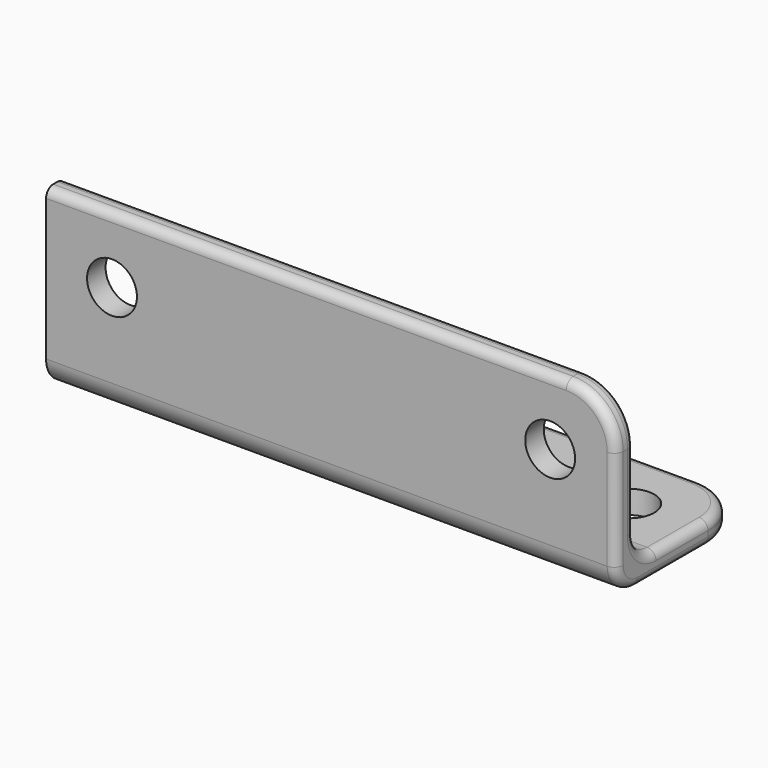
from build123d import *

# Parameters (mm, degrees)
F0_R     = 2.8
F1_DEPTH = 2.6
F2_R     = 2.8
F3_DEPTH = 2.6
F4_R     = 3
F5_R     = 1


with BuildPart() as f1:
    # F0 (on Top) → F1 (new body)
    with BuildSketch(Plane.XY):
        with BuildLine():
            Line((0, 18.5), (0, 0))
            Line((0, 0), (64, 0))
            Line((64, 0), (64, 12.9))
            ThreePointArc((64, 12.9), (62.3597979746, 16.8597979746), (58.4, 18.5))
            Line((58.4, 18.5), (0, 18.5))
        make_face()
        with Locations((7.4, 11.1)):
            Circle(F0_R, mode=Mode.SUBTRACT)
        with Locations((56.6, 11.1)):
            Circle(F0_R, mode=Mode.SUBTRACT)
    extrude(amount=F1_DEPTH)

    # F2 (on Front) → F3 (join)
    with BuildSketch(Plane.XZ):
        with BuildLine():
            Line((0, 19.8681156561), (0, 1.3681156561))
            Line((0, 1.3681156561), (64, 1.3681156561))
            Line((64, 1.3681156561), (64, 14.2681156561))
            ThreePointArc((64, 14.2681156561), (62.3597979746, 18.2279136307), (58.4, 19.8681156561))
            Line((58.4, 19.8681156561), (0, 19.8681156561))
        make_face()
        with Locations((7.4, 12.4681156561)):
            Circle(F2_R, mode=Mode.SUBTRACT)
        with Locations((56.6, 12.4681156561)):
            Circle(F2_R, mode=Mode.SUBTRACT)
    extrude(amount=-F3_DEPTH)

    # F4
    f4_edges = [f1.edges().sort_by_distance(p)[0] for p in [
        (32, 0, 0),
        (32, 2.6, 2.6),
    ]]
    fillet(f4_edges, radius=F4_R)

    # F5
    f5_edges = [f1.edges().sort_by_distance(p)[0] for p in [
        (29.2, 2.6, 19.868116),
        (29.2, 0, 19.868116),
        (29.2, 18.5, 2.6),
        (29.2, 18.5, 0),
        (64, 0, 8.634058),
        (64, 0.87868, 0.87868),
        (64, 7.95, 0),
        (64, 9.25, 2.6),
        (64, 2.6, 9.934058),
        (62.359798, 2.6, 18.227914),
        (62.359798, 0, 18.227914),
        (62.359798, 16.859798, 2.6),
        (62.359798, 16.859798, 0),
    ]]
    fillet(f5_edges, radius=F5_R)


solid = f1.part
